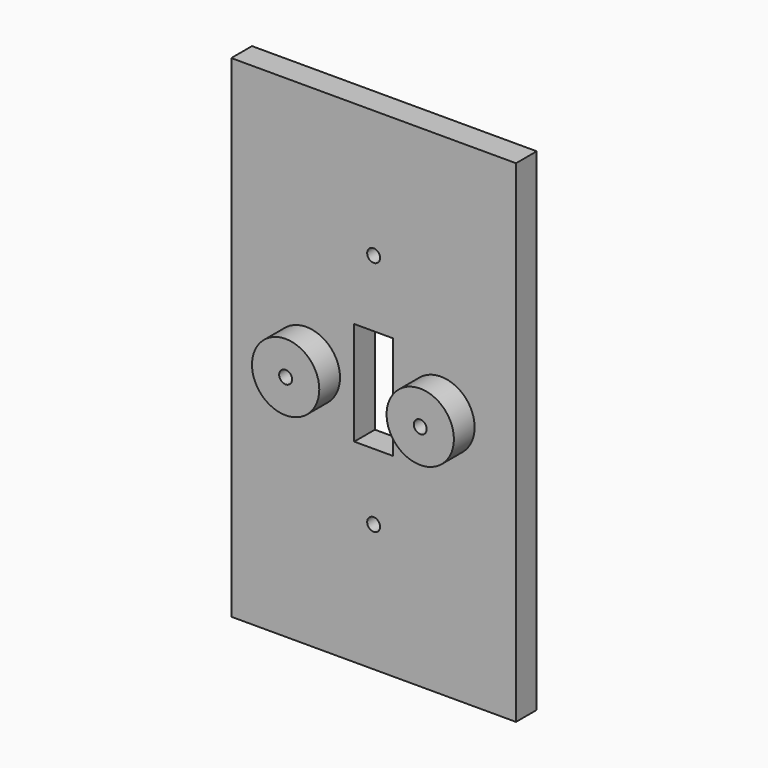
from build123d import *

# Parameters (mm, degrees)
F0_W     = 69.85
F0_H     = 120.65
F0_R     = 1.5875
F0_R_2   = 8.255
F0_W_2   = 9.525
F0_H_2   = 25.4
F1_DEPTH = 6.35
F2_DEPTH = 12.7
F3_DEPTH = 12.7


with BuildPart() as f1:
    # F0 (on Front) → F1 (new body)
    with BuildSketch(Plane.XZ):
        Rectangle(F0_W, F0_H)
        with Locations((0, -29.0322)):
            Circle(F0_R, mode=Mode.SUBTRACT)
        with Locations((-16.51, 0)):
            Circle(F0_R_2, mode=Mode.SUBTRACT)
        Rectangle(F0_W_2, F0_H_2, mode=Mode.SUBTRACT)
        with Locations((16.51, 0)):
            Circle(F0_R_2, mode=Mode.SUBTRACT)
        with Locations((0, 29.028019)):
            Circle(F0_R, mode=Mode.SUBTRACT)
    extrude(amount=F1_DEPTH)

    # F0 (on Front) → F2 (join)
    with BuildSketch(Plane.XZ):
        with Locations((-16.51, 0)):
            Circle(F0_R_2)
        with Locations((-16.51, 0)):
            Circle(F0_R, mode=Mode.SUBTRACT)
    extrude(amount=F2_DEPTH)

    # F0 (on Front) → F3 (join)
    with BuildSketch(Plane.XZ):
        with Locations((16.51, 0)):
            Circle(F0_R_2)
        with Locations((16.51, 0)):
            Circle(F0_R, mode=Mode.SUBTRACT)
    extrude(amount=F3_DEPTH)


solid = f1.part
